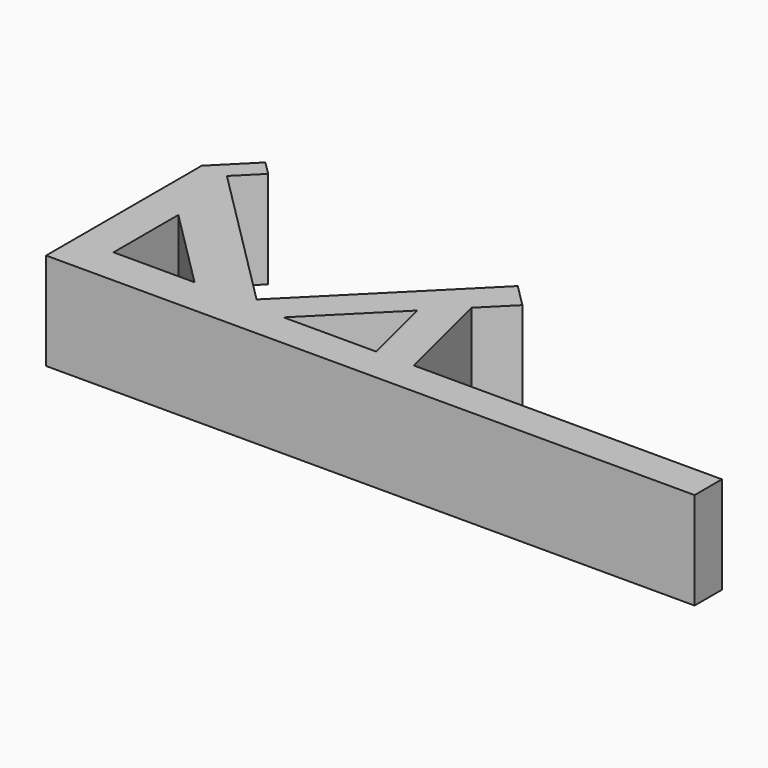
from build123d import *

# Parameters (mm, degrees)
F1_DEPTH = 15


with BuildPart() as f1:
    # F0 (on Top) → F1 (new body)
    with BuildSketch(Plane.XY):
        Polygon((0, 30), (0, 0), (100, 0), (100, 5.270477), (52.495955, 5.270477), (48.513009, 21.378781), (52.861313, 25.727085), (49.325779, 29.262619), (26.951778, 6.888618), (4.041518, 29.798878), (7.577052, 33.334412), (5.455732, 35.455732), align=None)
        Polygon((5.821579, 5.723874), (5.821579, 18.215366), (18.313071, 5.723874), align=None, mode=Mode.SUBTRACT)
        Polygon((46.678054, 5.270477), (32.404705, 5.270477), (43.848465, 16.714237), align=None, mode=Mode.SUBTRACT)
    extrude(amount=F1_DEPTH)


solid = f1.part
